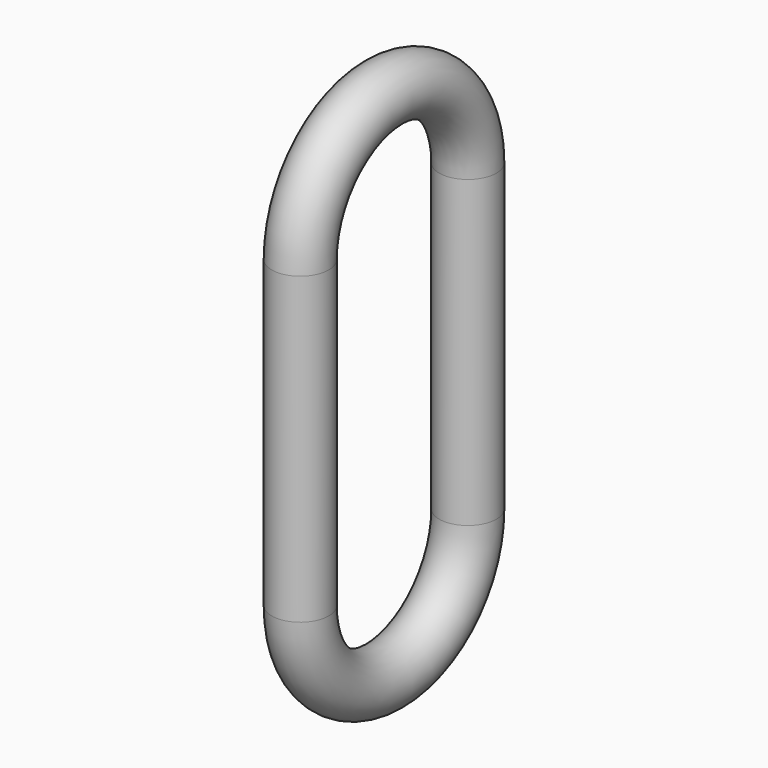
from build123d import *

# Parameters (mm, degrees)
F1_R = 9.525


with BuildPart() as f2:
    # F2: sweep along a path in F0
    with BuildLine(Plane.YZ) as f2_path:
        ThreePointArc((0, 0), (34.925, -34.925), (69.85, 0))
        Line((69.85, 0), (69.85, 101.6))
        ThreePointArc((69.85, 101.6), (34.925, 136.525), (0, 101.6))
        Line((0, 101.6), (0, 0))
    # F1 (on Top) → F2 (sweep)
    with BuildSketch(Plane.XY):
        Circle(F1_R)
    sweep(path=f2_path.line)


solid = f2.part
